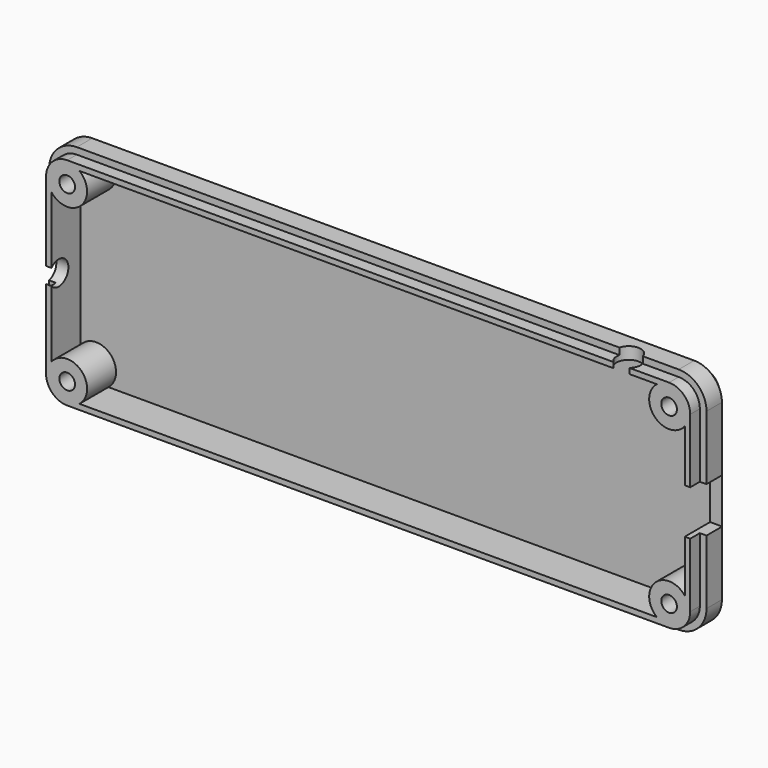
from build123d import *

# Parameters (mm, degrees)
CYLINDER003_R     = 2
CYLINDER003_DEPTH = 10
CYLINDER001_R     = 2
CYLINDER001_DEPTH = 10
SKETCH037_W       = 7.5
SKETCH037_H       = 7.5
EXTRUDE045_DEPTH  = 10
SKETCH005_R       = 1.3
EXTRUDE003_DEPTH  = 20
EXTRUDE039_DEPTH  = 4
EXTRUDE042_DEPTH  = 0.8
EXTRUDE002_DEPTH  = 6
EXTRUDE037_DEPTH  = 2


with BuildPart() as shutter_cable001:
    # Cylinder003 → Cylinder003 (new body)
    with BuildSketch(Plane(origin=(19.5, 0, 24.5), x_dir=(1, 0, 0), z_dir=(0, 0, 1))):
        Circle(CYLINDER003_R)
    extrude(amount=CYLINDER003_DEPTH)


with BuildPart() as battery_cable:
    # Cylinder001 → Cylinder001 (new body)
    with BuildSketch(Plane(origin=(-70.5, 0, 12), x_dir=(0, 0, 1), z_dir=(-1, 0, 0))):
        Circle(CYLINDER001_R)
    extrude(amount=CYLINDER001_DEPTH)


with BuildPart() as common_sub:
    # Sketch037 → Extrude045 (new body)
    with BuildSketch(Plane.YZ.offset(35)):
        with Locations((0, 12)):
            Rectangle(SKETCH037_W, SKETCH037_H)
    extrude(amount=EXTRUDE045_DEPTH)


with BuildPart() as common_sub_1:
    # Extrude045 placement: moved
    add(common_sub.part.moved(Location((-9.5, 0, 0))))

    # Fusion033: union shutter cable001, battery cable
    add(shutter_cable001.part)
    add(battery_cable.part)


with BuildPart() as sweep001:
    # Sweep001: sweep along a path in Sketch034
    with BuildLine(Plane.XZ.offset(10)) as sweep001_path:
        Line((32, 12), (32, 26.4))
        ThreePointArc((32, 26.4), (30.652691, 29.652691), (27.4, 31))
        Line((27.4, 31), (-39.9, 31))
    # Sketch035 → Sweep001 (sweep)
    with BuildSketch(Plane.YZ):
        Polygon((5.3, 29.4), (3.7, 31), (3.7, 32), (6, 32), (6, 29.4), align=None)
    sweep(path=sweep001_path.line)


with BuildPart() as fusion030:
    # Sketch005 → Extrude003 (new body)
    with BuildSketch(Plane.XZ.offset(5)):
        with Locations((27.4, 26.4)):
            Circle(SKETCH005_R)
    extrude(amount=-EXTRUDE003_DEPTH)


with BuildPart() as fusion030_1:
    # Extrude003 placement: moved
    add(fusion030.part.moved(Location((0, -4, 0))))

    # Fusion030: union Sweep001
    add(sweep001.part)


with BuildPart() as top003:
    # Sketch028 → Extrude039 (new body)
    with BuildSketch(Plane.XZ.offset(10)):
        with BuildLine():
            ThreePointArc((32, 26.4), (30.652691, 29.652691), (27.4, 31))
            Line((27.4, 31), (-39.9, 31))
            Line((-39.9, 31), (-39.9, 29))
            Line((-39.9, 29), (27.4, 29))
            ThreePointArc((30, 26.4), (29.238478, 28.238478), (27.4, 29))
            Line((30, 12), (30, 26.4))
            Line((32, 12), (30, 12))
            Line((32, 26.4), (32, 12))
        make_face()
    extrude(amount=EXTRUDE039_DEPTH)


with BuildPart() as top003_1:
    # Extrude039 placement: moved
    add(top003.part.moved(Location((0, 14.5, 0))))


with BuildPart() as top002:
    # Sketch031 → Extrude042 (new body)
    with BuildSketch(Plane.XZ.offset(10)):
        with BuildLine():
            ThreePointArc((32, 26.4), (30.652691, 29.652691), (27.4, 31))
            Line((27.4, 31), (-39.9, 31))
            Line((-39.9, 31), (-39.9, 12))
            Line((-39.9, 12), (32, 12))
            Line((32, 26.4), (32, 12))
        make_face()
    extrude(amount=EXTRUDE042_DEPTH)


with BuildPart() as top002_1:
    # Extrude042 placement: moved
    add(top002.part.moved(Location((0, 15.3, 0))))


with BuildPart() as screw_hole_top:
    # Sketch004 → Extrude002 (new body)
    with BuildSketch(Plane.XZ.offset(10)):
        with BuildLine():
            ThreePointArc((25.36776, 29), (25.066548, 24.066548), (30, 24.36776))
            Line((30, 24.36776), (30, 26.4))
            ThreePointArc((30, 26.4), (29.238478, 28.238478), (27.4, 29))
            Line((25.36776, 29), (27.4, 29))
        make_face()
    extrude(amount=-EXTRUDE002_DEPTH)


with BuildPart() as screw_hole_top_1:
    # Extrude002 placement: moved
    add(screw_hole_top.part.moved(Location((0, 8.5, 0))))


with BuildPart() as top:
    # Sketch029 → Extrude037 (new body)
    with BuildSketch(Plane.XZ.offset(10)):
        with BuildLine():
            ThreePointArc((30.9, 26.4), (29.874874, 28.874874), (27.4, 29.9))
            Line((27.4, 29.9), (-22.5, 29.9))
            Line((-22.5, 29.9), (-22.5, 29))
            Line((-22.5, 29), (27.4, 29))
            ThreePointArc((30, 26.4), (29.238478, 28.238478), (27.4, 29))
            Line((30, 12), (30, 26.4))
            Line((30.9, 12), (30, 12))
            Line((30.9, 26.4), (30.9, 12))
        make_face()
    extrude(amount=EXTRUDE037_DEPTH)


with BuildPart() as top_1:
    # Extrude037 placement: moved
    add(top.part.moved(Location((0, 10.5, 0))))

    # Fusion028: union top003, top002, screw hole top
    add(top003_1.part)
    add(top002_1.part)
    add(screw_hole_top_1.part)

    # Cut024: cut Fusion030
    add(fusion030_1.part, mode=Mode.SUBTRACT)


with BuildPart() as part_mirroring:
    # Part__Mirroring: instance of top
    add(top_1.part.mirror(Plane(origin=(0, 0, 12), x_dir=(0, 1, 0), z_dir=(0, 0, 1))))


with BuildPart() as part_mirroring002:
    # Part__Mirroring002: instance of Part__Mirroring
    add(part_mirroring.part.mirror(Plane(origin=(-22.5, 1, 0), x_dir=(0, -1, 0), z_dir=(1, 0, 0))))


with BuildPart() as top007:
    # Part__Mirroring003: instance of top
    add(top_1.part.mirror(Plane(origin=(-22.5, 0, 0), x_dir=(0, -1, 0), z_dir=(1, 0, 0))))

    # Fusion032: union top, Part__Mirroring, Part__Mirroring002
    add(top_1.part)
    add(part_mirroring.part)
    add(part_mirroring002.part)

    # Cut025: cut common sub
    add(common_sub_1.part, mode=Mode.SUBTRACT)


solid = top007.part
